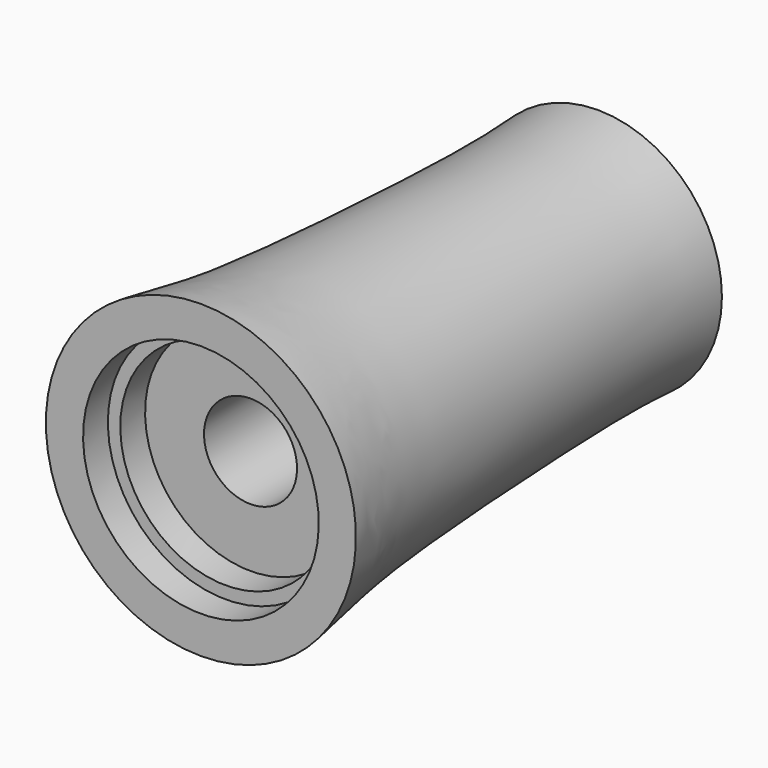
from build123d import *


with BuildPart() as f1:
    # F0 (on Right) → F1 (revolve)
    with BuildSketch(Plane.YZ):
        with BuildLine():
            add(Edge.make_bspline(
                [(-30.2832648158, 31.4344563204), (-39.2876701466, 30.8777280285), (-59.8573779262, 31.2174822431), (-111.2182187798, 33.5696872933), (-126.0642315855, 36.9681688544), (-131.8832648158, 37.7844563204)],
                knots=[0, 0, 0, 0, 0.3192466678, 0.7357239866, 1, 1, 1, 1], degree=3))
            Line((-131.8832648158, 37.7844563204), (-131.8832648158, 30.1644563204))
            Line((-131.8832648158, 30.1644563204), (-125.5332648158, 30.1644563204))
            Line((-125.5332648158, 30.1644563204), (-125.5332648158, 27.6244563204))
            Line((-125.5332648158, 27.6244563204), (-119.1832648158, 27.6244563204))
            Line((-119.1832648158, 27.6244563204), (-119.1832648158, 15.5594563204))
            Line((-119.1832648158, 15.5594563204), (-55.6832648158, 15.5594563204))
            Line((-55.6832648158, 15.5594563204), (-55.6832648158, 18.7344563204))
            Line((-55.6832648158, 18.7344563204), (-30.2832648158, 18.7344563204))
            Line((-30.2832648158, 18.7344563204), (-30.2832648158, 31.4344563204))
        make_face()
    revolve(axis=Axis((0, -81.0832648158, 6.0344563204), (0, 1, 0)))


solid = f1.part
